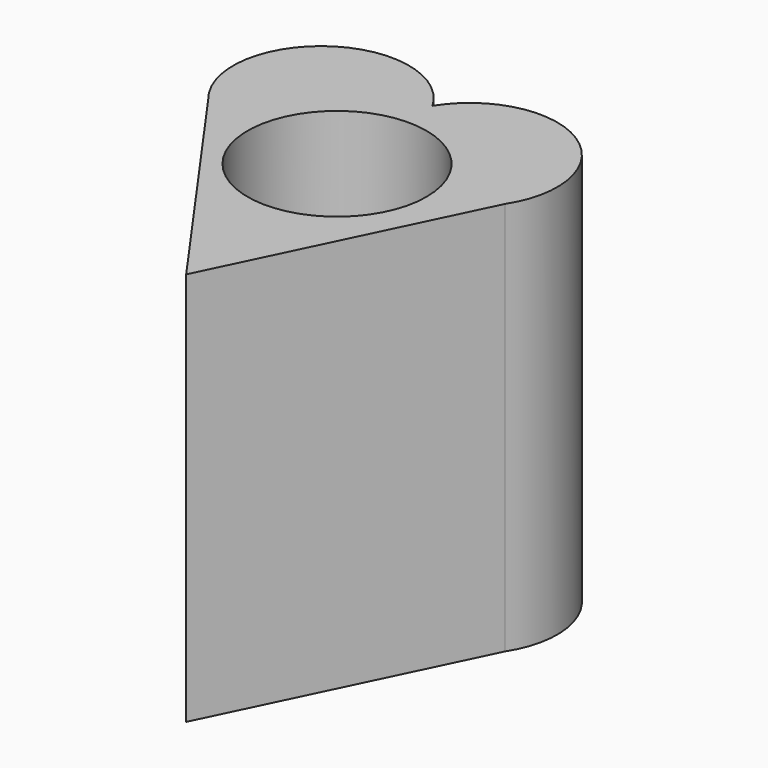
from build123d import *

# Parameters (mm, degrees)
F0_R     = 29.527128
F1_DEPTH = 130.02438


with BuildPart() as f1:
    # F0 (on Top) → F1 (new body)
    with BuildSketch(Plane.XY):
        with BuildLine():
            ThreePointArc((39.612584, 14.331236), (30.857797, 54.467787), (-9.208991, 45.399074))
            ThreePointArc((-9.208991, 45.399074), (-49.450211, 55.589251), (-58.735452, 15.129644))
            Line((-58.735452, 15.129644), (-57.204164, 12.969427))
            Line((-57.204164, 12.969427), (0, -67.72957))
            Line((0, -67.72957), (39.612584, 14.331236))
        make_face()
        with Locations((-8.197797, 4.750041)):
            Circle(F0_R, mode=Mode.SUBTRACT)
        with BuildLine():
            Line((-57.204164, 12.969427), (-58.735452, 15.129644))
            ThreePointArc((-58.735452, 15.129644), (-57.994451, 14.032067), (-57.204164, 12.969427))
        make_face()
    extrude(amount=F1_DEPTH)


solid = f1.part
